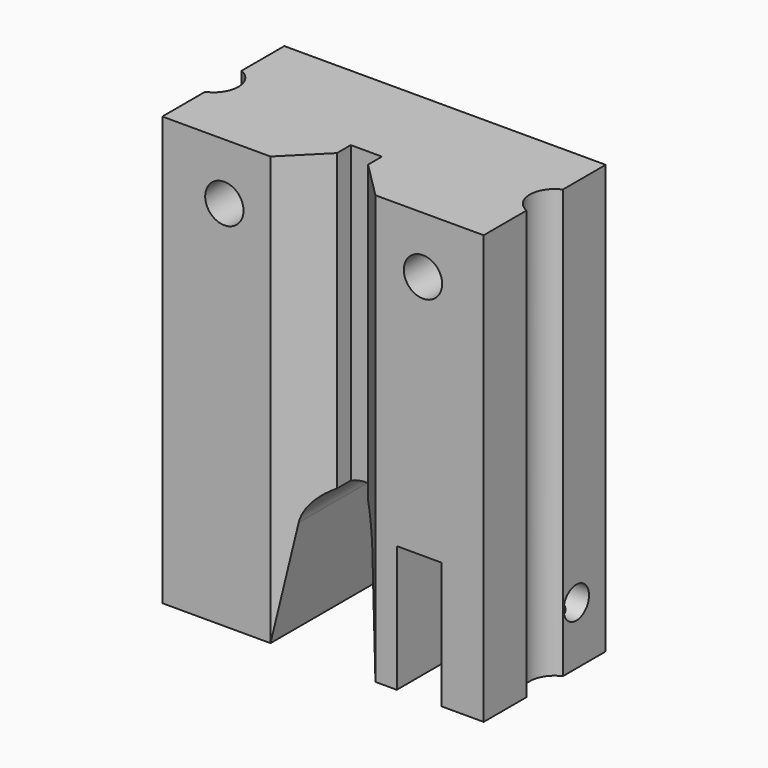
from build123d import *

# Parameters (mm, degrees)
F1_DEPTH = 54.7878
F2_R     = 2.4511
F2_W     = 5.715
F2_H     = 16.1798
F3_DEPTH = 25.4
F4_R     = 3.175
F5_DEPTH = 10.4648
F6_R     = 2.032
F7_DEPTH = 5.3975
F8_R     = 1.397
F9_DEPTH = 5.9421934451


with BuildPart() as f1:
    # F0 (on Top) → F1 (new body)
    with BuildSketch(Plane.XY):
        with BuildLine():
            Line((20.5486, 2.9099355663), (20.5486, 9.7536))
            Line((20.5486, 9.7536), (-20.5486, 9.7536))
            Line((-20.5486, 9.7536), (-20.5486, 2.918719736))
            ThreePointArc((-20.5486, 2.918719736), (-18.62328, 0), (-20.5486, -2.918719736))
            Line((-20.5486, -2.918719736), (-20.5486, -9.7536))
            Line((-20.5486, -9.7536), (-6.7096824712, -9.7536))
            Line((-6.7096824712, -9.7536), (-1.9939, -5.0378175288))
            Line((-1.9939, -5.0378175288), (-1.9939, -2.8194))
            Line((-1.9939, -2.8194), (1.9939, -2.8194))
            Line((1.9939, -2.8194), (1.9939, -5.0378175288))
            Line((1.9939, -5.0378175288), (6.7096824712, -9.7536))
            Line((6.7096824712, -9.7536), (20.5486, -9.7536))
            Line((20.5486, -9.7536), (20.5486, -2.9099355663))
            ThreePointArc((20.5486, -2.9099355663), (18.6436, 0), (20.5486, 2.9099355663))
        make_face()
    extrude(amount=F1_DEPTH)

    # F2 (on face) → F3 (cut)
    with BuildSketch(Plane.XZ.offset(9.7536)):
        with Locations((-12.6111, 47.5742)):
            Circle(F2_R)
        with Locations((12.7889, 47.5742)):
            Circle(F2_R)
        with Locations((12.2936, 8.0899)):
            Rectangle(F2_W, F2_H)
        with BuildLine():
            Line((6.7096824712, 0), (4.710379922, 13.4026572713))
            ThreePointArc((4.710379922, 13.4026572713), (0, 17.4625), (-4.710379922, 13.4026572713))
            Line((-4.710379922, 13.4026572713), (-6.7096824712, 0))
            Line((-6.7096824712, 0), (6.7096824712, 0))
        make_face()
    extrude(amount=-F3_DEPTH, mode=Mode.SUBTRACT)

    # F4 (on face) → F5 (cut)
    with BuildSketch(Plane(origin=(0, 0, 16.1798), x_dir=(1, 0, 0), z_dir=(0, 0, -1))):
        with Locations((11.4594824712, 4.318)):
            Circle(F4_R)
    extrude(amount=-F5_DEPTH, mode=Mode.SUBTRACT)

    # F6 (on face) → F7 (cut, through all)
    with BuildSketch(Plane.YZ.offset(20.5486)):
        with Locations((5.0546, 7.4168)):
            Circle(F6_R)
    extrude(amount=-F7_DEPTH, mode=Mode.SUBTRACT)

    # F8 (on face) → F9 (cut, through all)
    with BuildSketch(Plane(origin=(0, 0, 0), x_dir=(1, 0, 0), z_dir=(0, 0, -1))):
        with Locations((17.3736, -5.0546)):
            Circle(F8_R)
    extrude(amount=-F9_DEPTH, mode=Mode.SUBTRACT)


solid = f1.part
